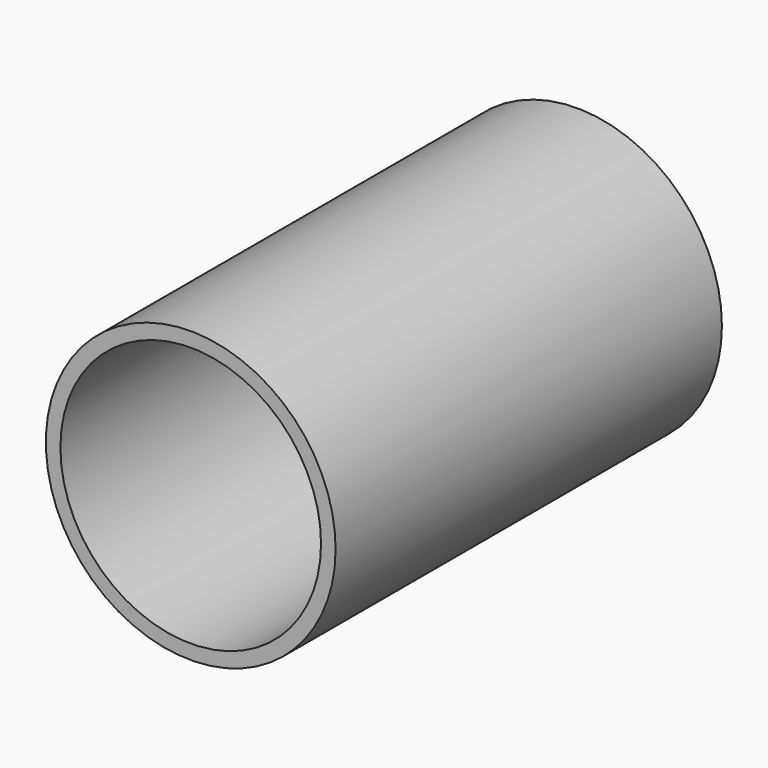
from build123d import *

# Parameters (mm, degrees)
F0_R     = 25.296615
F1_DEPTH = 84.328
F2_T     = -2.54
F3_W     = 6.888267
F3_H     = 19.285627
F4_DEPTH = 25.4


with BuildPart() as f1:
    # F0 (on Front) → F1 (new body)
    with BuildSketch(Plane.XZ):
        Circle(F0_R)
    extrude(amount=F1_DEPTH)

    # F2
    f2_openings = [f1.faces().sort_by_distance(p)[0] for p in [
        (0, -84.328, 0),
    ]]
    offset(amount=F2_T, openings=f2_openings)

    # F3 (on Top) → F4 (cut)
    with BuildSketch(Plane.XY):
        with Locations((3.444133, -11.754679)):
            Rectangle(F3_W, F3_H)
    extrude(amount=-F4_DEPTH, mode=Mode.SUBTRACT)


solid = f1.part
